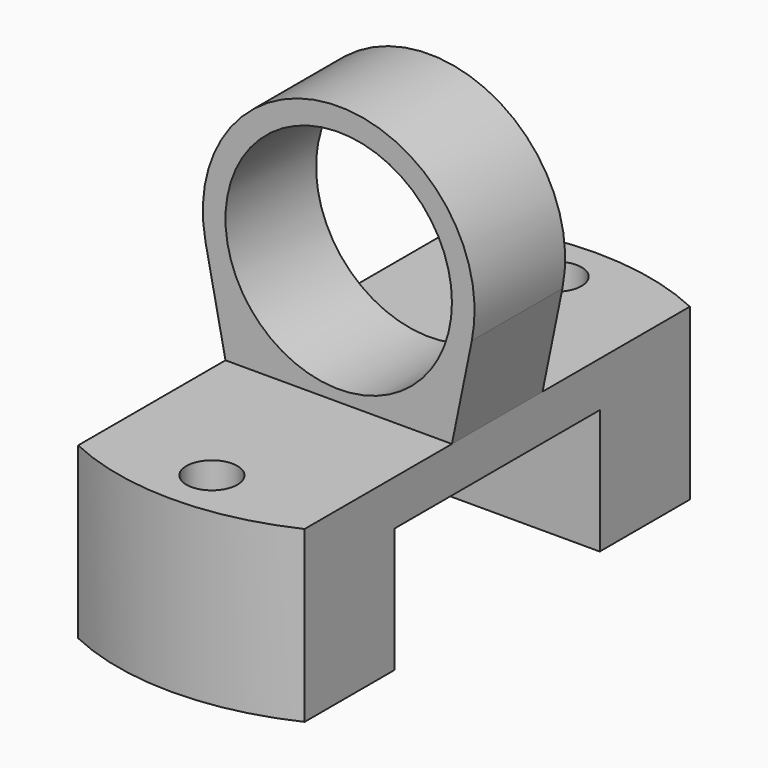
from build123d import *

# Parameters (mm, degrees)
SKETCH067_R          = 2.25
PAD043_DEPTH         = 15
SKETCH068_R          = 10
PAD044_DEPTH         = 5
SKETCH069_W          = 22.6375
SKETCH069_H          = 11
POCKET022_DEPTH      = 12.001
POCKET022_DEPTH_BACK = 12.001


with BuildPart() as part:
    # Sketch067 → Pad043 (new body)
    with BuildSketch(Plane.XY):
        with BuildLine():
            ThreePointArc((10, 21.26617), (0, 23.5), (-10, 21.26617))
            Line((-10, 21.26617), (-10, -21.26617))
            ThreePointArc((-10, -21.26617), (0, -23.5), (10, -21.26617))
            Line((10, -21.26617), (10, 21.26617))
        make_face()
        with Locations((0, 19)):
            Circle(SKETCH067_R, mode=Mode.SUBTRACT)
        with Locations((0, -19)):
            Circle(SKETCH067_R, mode=Mode.SUBTRACT)
    extrude(amount=PAD043_DEPTH)

    # Sketch068 → Pad044 (join, symmetric)
    with BuildSketch(Plane.XZ):
        with BuildLine():
            ThreePointArc((11.756992, 23.597266), (0, 38), (-11.756992, 23.597266))
            Line((-11.756992, 23.597266), (-10, 15))
            Line((10, 15), (-10, 15))
            Line((11.756992, 23.597266), (10, 15))
        make_face()
        with Locations((0, 26)):
            Circle(SKETCH068_R, mode=Mode.SUBTRACT)
    extrude(amount=PAD044_DEPTH, both=True)

    # Sketch069 → Pocket022 (cut, two sides)
    with BuildSketch(Plane.YZ) as pocket022_sk:
        with Locations((0, 5.5)):
            Rectangle(SKETCH069_W, SKETCH069_H)
    extrude(amount=-POCKET022_DEPTH, mode=Mode.SUBTRACT)
    extrude(pocket022_sk.sketch, amount=POCKET022_DEPTH_BACK, mode=Mode.SUBTRACT)


solid = part.part
